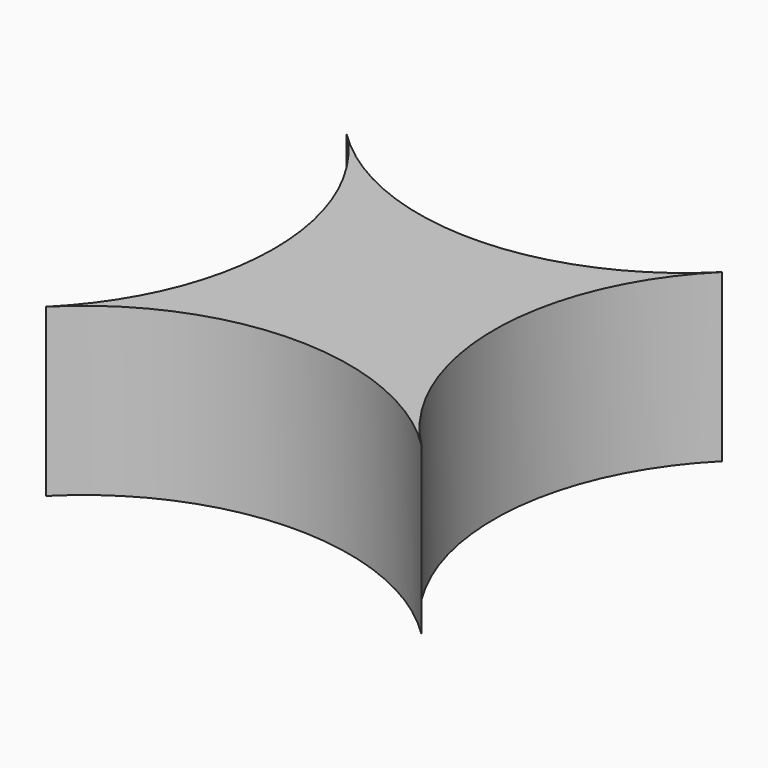
from build123d import *

# Parameters (mm, degrees)
F1_DEPTH = 12.7


with BuildPart() as f1:
    # F0 (on Top) → F1 (new body)
    with BuildSketch(Plane.XY):
        with BuildLine():
            ThreePointArc((14.312283193, -14.312283193), (8.3839413859, 2.7e-08), (14.3122832312, 14.3122832312))
            ThreePointArc((14.3122832312, 14.3122832312), (2.7e-08, 8.3839413859), (-14.312283193, 14.312283193))
            ThreePointArc((-14.312283193, 14.312283193), (-9.9246672232, 7.7457518482), (-8.3839413859, 0))
            ThreePointArc((-8.3839413859, 0), (-9.9246672276, -7.7457518588), (-14.3122832092, -14.3122832092))
            ThreePointArc((-14.3122832092, -14.3122832092), (-1.15e-08, -8.3839413859), (14.312283193, -14.312283193))
        make_face()
    extrude(amount=F1_DEPTH)


solid = f1.part
